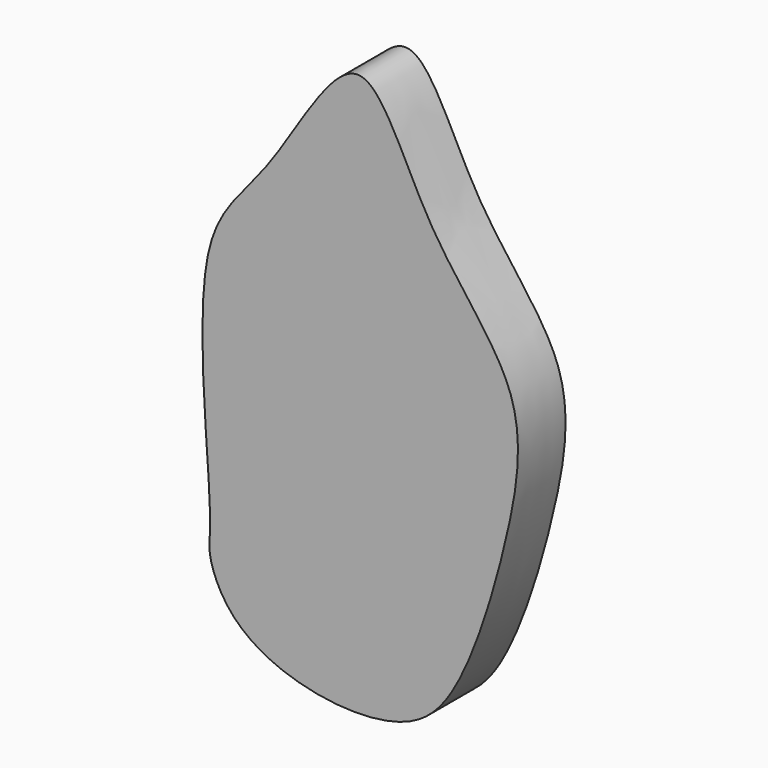
from build123d import *

# Parameters (mm, degrees)
F1_DEPTH = 12.7


with BuildPart() as f1:
    # F0 (on Front) → F1 (new body)
    with BuildSketch(Plane.XZ):
        with BuildLine():
            add(Edge.make_bspline(
                [(-31.3658118248, -29.8410877585), (-31.3216097842, -33.6329223996), (-32.2755779974, -36.7272849326), (-27.0002357328, -49.2214188603), (-9.9421478131, -56.9837838385), (10.4827834138, -56.8871396625), (22.4612146816, -46.1432888203), (32.7177514333, -13.1468125539), (37.0088704929, 15.920750062), (14.0981431884, 37.3426303198), (0.9967213037, 76.5467081379), (-18.8402669251, 36.6166745029), (-37.0380197449, 24.0971287449), (-31.4797752773, -20.0648294371), (-31.3658118248, -29.8410877585)],
                knots=[0, 0, 0, 0, 0.04695267, 0.1049542194, 0.1791800571, 0.2547272439, 0.320442881, 0.4212961329, 0.5117059269, 0.6095231616, 0.6990848153, 0.7926275887, 0.8789447658, 1, 1, 1, 1], degree=3))
        make_face()
    extrude(amount=F1_DEPTH)


solid = f1.part
